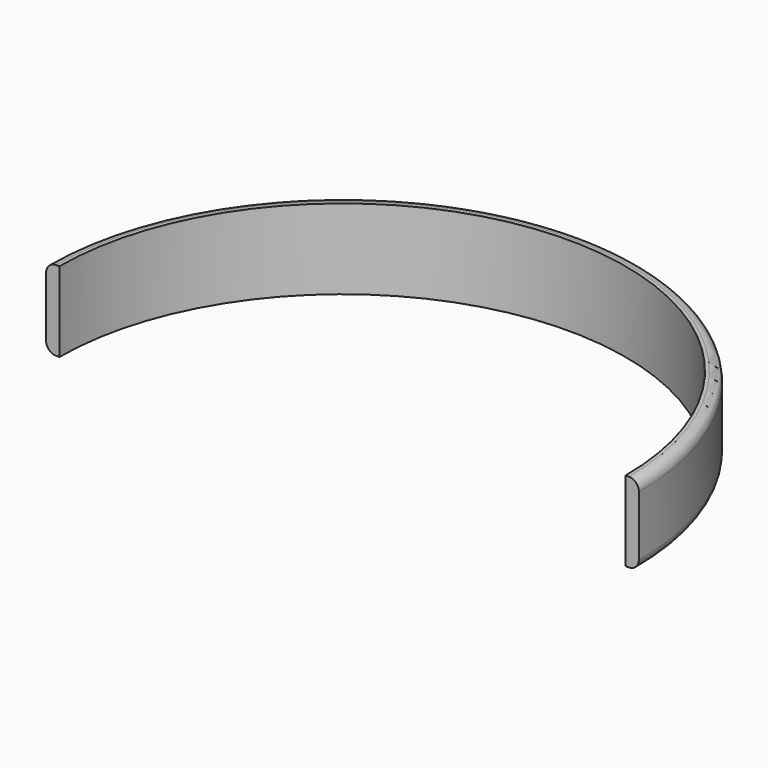
from build123d import *

# Parameters (mm, degrees)
PAD_DEPTH = 24
FILLET_R  = 3


with BuildPart() as part:
    # Sketch → Pad (new body)
    with BuildSketch(Plane.XY):
        with BuildLine():
            ThreePointArc((85, 0), (0, 85), (-85, 0))
            Line((-89, 0), (-85, 0))
            ThreePointArc((89, 0), (0, 89), (-89, 0))
            Line((85, 0), (89, 0))
        make_face()
    extrude(amount=PAD_DEPTH)

    # Fillet
    fillet_edges = [part.edges().sort_by_distance(p)[0] for p in [
        (0, 89, 24),
        (0, 89, 0),
    ]]
    fillet(fillet_edges, radius=FILLET_R)


solid = part.part
